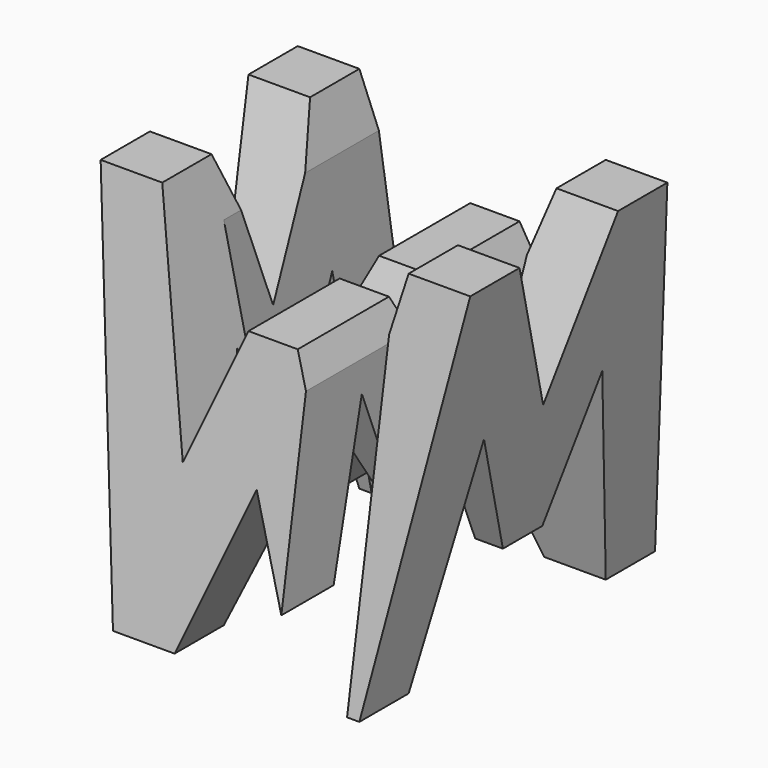
from build123d import *

# Parameters (mm, degrees)
F0_W      = 38.1
F0_H      = 38.1
F1_DEPTH  = 38.1
F6_DEPTH  = 38.1
F8_DEPTH  = 38.1
F9_W      = 7.62
F9_H      = 25.4
F10_DEPTH = 38.1


with BuildPart() as f1:
    # F0 (on Right) → F1 (new body)
    with BuildSketch(Plane.YZ):
        with Locations((19.05, 19.05)):
            Rectangle(F0_W, F0_H)
    extrude(amount=F1_DEPTH)

    # F5 (on offset) → F6 (cut)
    with BuildSketch(Plane.XZ.offset(-38.1)):
        Polygon((38.1, 0), (38.1, 38.1), (31.75, 0), align=None)
        Polygon((31.75, 38.1), (6.35, 38.1), (11.43, 15.875), (16.51, 28.575), (21.59, 28.575), (26.67, 15.875), align=None)
        Polygon((19.05, 15.875), (12.7, 0), (25.4, 0), align=None)
        Polygon((0, 38.1), (0, 0), (6.35, 0), align=None)
    extrude(amount=F6_DEPTH, mode=Mode.SUBTRACT)

    # F7 (on offset) → F8 (cut)
    with BuildSketch(Plane.YZ.offset(38.1)):
        Polygon((0, 38.1), (0, 0), (6.35, 38.1), align=None)
        Polygon((25.4, 38.1), (12.7, 38.1), (19.05, 22.225), align=None)
        Polygon((31.75, 38.1), (38.1, 0), (38.1, 38.1), align=None)
        Polygon((11.43, 22.225), (6.35, 0), (31.75, 0), (26.67, 22.225), (21.59, 9.525), (16.51, 9.525), align=None)
    extrude(amount=-F8_DEPTH, mode=Mode.SUBTRACT)

    # F9 (on offset) → F10 (cut)
    with BuildSketch(Plane.XY.offset(38.1)):
        with Locations((26.67, 12.7)):
            Rectangle(F9_W, F9_H)
        Polygon((15.24, 38.1), (7.62, 38.1), (7.62, 12.7), (15.24, 12.594295), align=None)
    extrude(amount=-F10_DEPTH, mode=Mode.SUBTRACT)


solid = f1.part
